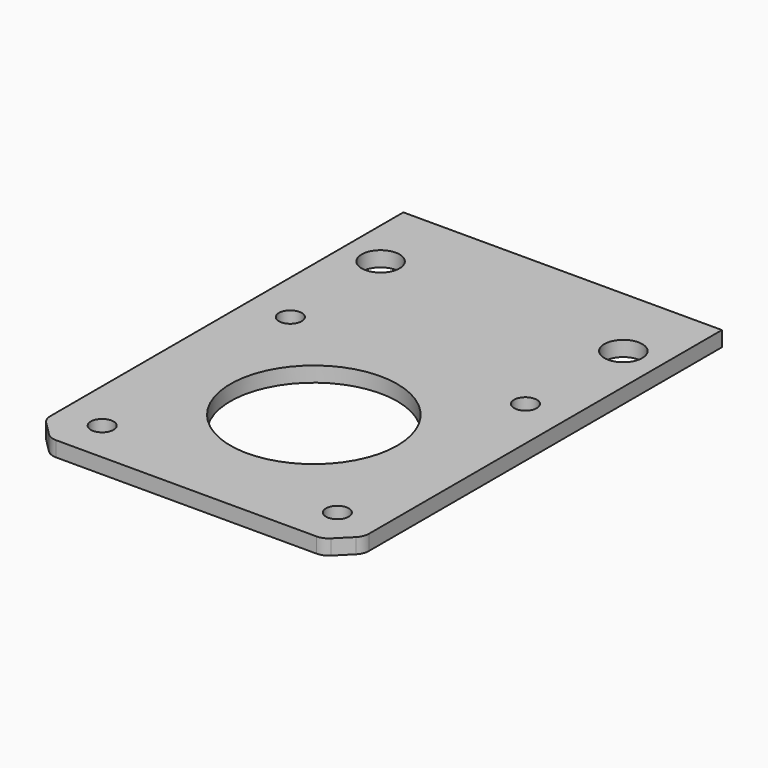
from build123d import *

# Parameters (mm, degrees)
F0_W     = 42
F0_H     = 62
F0_R     = 1.5
F0_R_2   = 11
F0_R_3   = 2.5
F1_DEPTH = 2
F2_SIZE  = 3
F3_R     = 2


with BuildPart() as f1:
    # F0 (on Top) → F1 (new body)
    with BuildSketch(Plane.XY):
        Rectangle(F0_W, F0_H)
        with Locations((-15.5, -25.5)):
            Circle(F0_R, mode=Mode.SUBTRACT)
        with Locations((15.5, -25.5)):
            Circle(F0_R, mode=Mode.SUBTRACT)
        with Locations((0, -10)):
            Circle(F0_R_2, mode=Mode.SUBTRACT)
        with Locations((-15.5, 5.5)):
            Circle(F0_R, mode=Mode.SUBTRACT)
        with Locations((-16, 21)):
            Circle(F0_R_3, mode=Mode.SUBTRACT)
        with Locations((15.5, 5.5)):
            Circle(F0_R, mode=Mode.SUBTRACT)
        with Locations((16, 21)):
            Circle(F0_R_3, mode=Mode.SUBTRACT)
    extrude(amount=F1_DEPTH)

    # F2
    f2_edges = [f1.edges().sort_by_distance(p)[0] for p in [
        (-21, -31, 1),
        (21, -31, 1),
    ]]
    chamfer(f2_edges, length=F2_SIZE)

    # F3
    f3_edges = [f1.edges().sort_by_distance(p)[0] for p in [
        (-18, -31, 1),
        (18, -31, 1),
        (21, -28, 1),
        (-21, -28, 1),
    ]]
    fillet(f3_edges, radius=F3_R)


solid = f1.part
